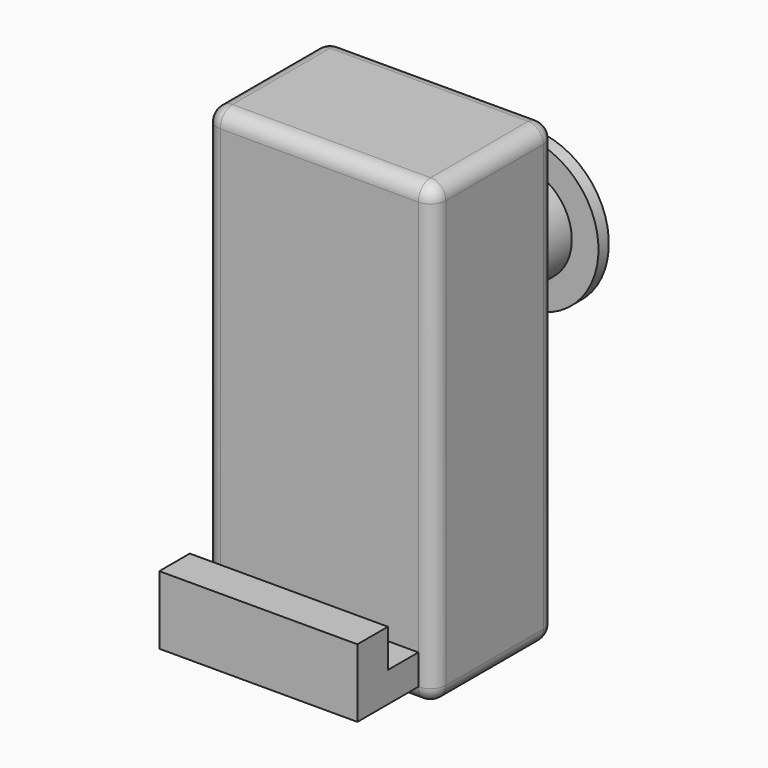
from build123d import *

# Parameters (mm, degrees)
F0_W      = 76.2
F0_H      = 152.4
F1_DEPTH  = 50.8
F2_R      = 5.08
F3_W      = 66.04
F3_H      = 10.080694
F4_DEPTH  = 25.4
F5_W      = 66.04
F5_H      = 12.7
F6_DEPTH  = 12.7
F7_W      = 19.05
F7_H      = 6.35
F8_DEPTH  = 103.886
F9_R      = 16.51
F10_DEPTH = 38.1
F11_R     = 25.4
F11_R_2   = 16.51
F12_DEPTH = 4.318


with BuildPart() as f1:
    # F0 (on Front) → F1 (new body)
    with BuildSketch(Plane.XZ):
        with Locations((49.800091, 58.736403)):
            Rectangle(F0_W, F0_H)
    extrude(amount=F1_DEPTH)

    # F2
    f2_edges = [f1.edges().sort_by_distance(p)[0] for p in [
        (49.800091, -50.8, 134.936403),
        (11.700091, -50.8, 58.736403),
        (49.800091, -50.8, -17.463597),
        (87.900091, -50.8, 58.736403),
        (11.700091, -25.4, -17.463597),
        (87.900091, -25.4, -17.463597),
        (49.800091, 0, -17.463597),
        (49.800091, 0, 134.936403),
        (11.700091, 0, 58.736403),
        (87.900091, 0, 58.736403),
        (11.700091, -25.4, 134.936403),
        (87.900091, -25.4, 134.936403),
    ]]
    fillet(f2_edges, radius=F2_R)

    # F3 (on face) → F4 (join)
    with BuildSketch(Plane.XZ.offset(50.8)):
        with Locations((49.800091, -7.34325)):
            Rectangle(F3_W, F3_H)
    extrude(amount=F4_DEPTH)

    # F5 (on face) → F6 (join)
    with BuildSketch(Plane.XY.offset(-2.302903)):
        with Locations((49.800091, -69.85)):
            Rectangle(F5_W, F5_H)
    extrude(amount=F6_DEPTH)

    # F7 (on face) → F8 (cut)
    with BuildSketch(Plane(origin=(0, 0, -12.383597), x_dir=(1, 0, 0), z_dir=(0, 0, -1))):
        with Locations((49.800091, 57.138579)):
            Rectangle(F7_W, F7_H)
    extrude(amount=-F8_DEPTH, mode=Mode.SUBTRACT)

    # F9 (on face) → F10 (join)
    with BuildSketch(Plane(origin=(0, 0, 0), x_dir=(-1, 0, 0), z_dir=(0, 1, 0))):
        with Locations((-49.800091, 79.056403)):
            Circle(F9_R)
    extrude(amount=F10_DEPTH)

    # F11 (on face) → F12 (join)
    with BuildSketch(Plane(origin=(0, 38.1, 0), x_dir=(-1, 0, 0), z_dir=(0, 1, 0))):
        with Locations((-49.800091, 79.056403)):
            Circle(F11_R)
        with Locations((-49.800091, 79.056403)):
            Circle(F11_R_2, mode=Mode.SUBTRACT)
    extrude(amount=-F12_DEPTH)


solid = f1.part
